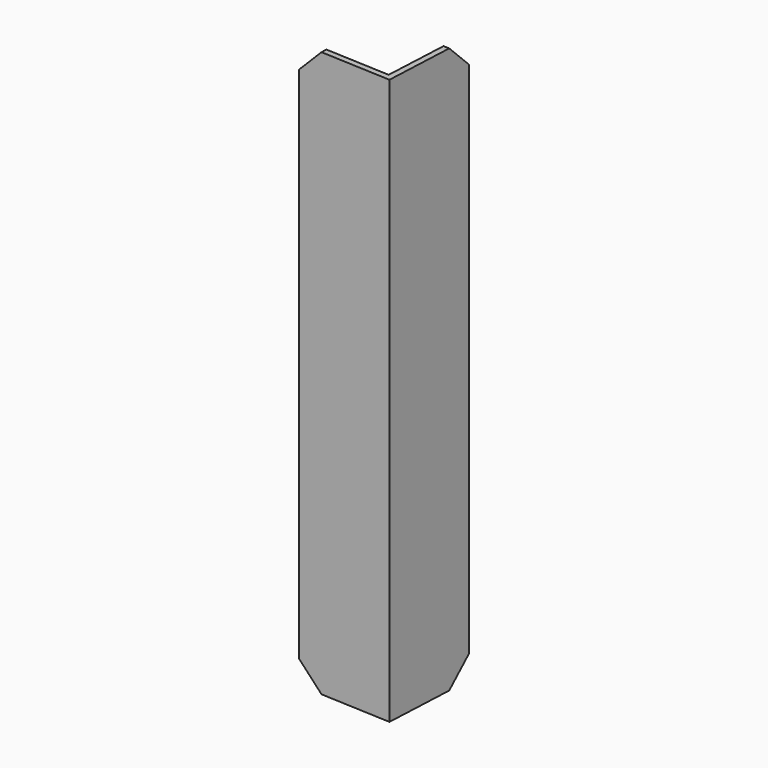
from build123d import *

# Parameters (mm, degrees)
F1_DEPTH   = 609.6
F3_DEPTH   = 25.4
F1_FACE2_W = 6.35
F1_FACE2_H = 609.6
F5_DEPTH   = 25.4
F7_DEPTH   = 25.4
F9_DEPTH   = 25.4


with BuildPart() as f1:
    # F0 (on Top) → F1 (new body)
    with BuildSketch(Plane.XY):
        Polygon((21.206026165, -27.4921420044), (21.206026165, -33.8421420044), (122.6945791882, -38.5996208804), (127.4520580641, 62.8889321428), (121.1090235002, 63.1862745726), (116.5493069378, -31.9615489545), align=None)
    extrude(amount=F1_DEPTH)

    # F2 (on face) → F3 (cut)
    with BuildSketch(Plane(origin=(124.2310217623, -5.8235775776, 0), x_dir=(0.0468255795, 0.9989030809, 0), z_dir=(0.9989030809, -0.0468255795, 0))):
        Polygon((43.3879645501, 609.6), (68.7879645501, 584.2), (68.7879645501, 609.6), align=None)
    extrude(amount=-F3_DEPTH, mode=Mode.SUBTRACT)

    # F4 (on face) + F1_face2 (on face) → F5 (cut)
    with BuildSketch(Plane(origin=(-1.5364425741, -32.7760433027, 0), x_dir=(0.9989030809, -0.0468255795, 0), z_dir=(-0.0468255795, -0.9989030809, 0))):
        Polygon((22.7674427811, 584.2), (48.1674427811, 609.6), (22.7674427811, 609.6), align=None)
    with BuildSketch(Plane(origin=(21.206026165, -30.6671420044, 304.8), x_dir=(0, -1, 0), z_dir=(-1, 0, 0))):
        Rectangle(F1_FACE2_W, F1_FACE2_H)
    extrude(amount=-F5_DEPTH, dir=(-0.0468255795, -0.9989030809, 0), mode=Mode.SUBTRACT)

    # F6 (on face) → F7 (cut)
    with BuildSketch(Plane(origin=(-1.5364425741, -32.7760433027, 0), x_dir=(0.9989030809, -0.0468255795, 0), z_dir=(-0.0468255795, -0.9989030809, 0))):
        Polygon((48.1674427811, 0), (22.7674427811, 25.4), (22.7674427811, 0), align=None)
    extrude(amount=-F7_DEPTH, mode=Mode.SUBTRACT)

    # F8 (on face) → F9 (cut)
    with BuildSketch(Plane(origin=(124.2310217623, -5.8235775776, 0), x_dir=(0.0468255795, 0.9989030809, 0), z_dir=(0.9989030809, -0.0468255795, 0))):
        Polygon((68.7879645501, 25.4), (43.3879645501, 0), (68.7879645501, 0), align=None)
    extrude(amount=-F9_DEPTH, mode=Mode.SUBTRACT)


solid = f1.part
